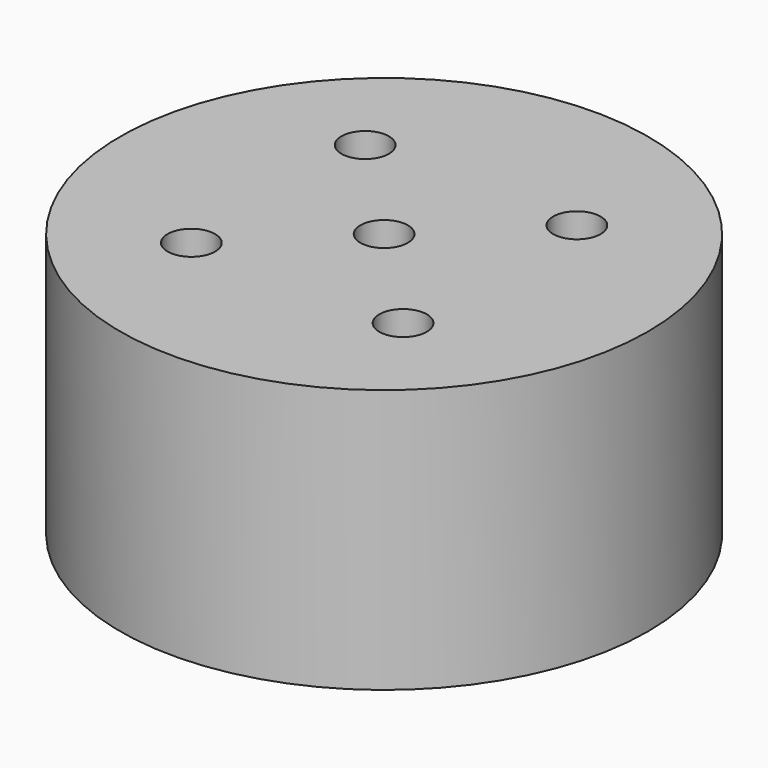
from build123d import *

# Parameters (mm, degrees)
F0_R     = 50
F0_R_2   = 4.5
F1_DEPTH = 50


with BuildPart() as f1:
    # F0 (on Top) → F1 (new body)
    with BuildSketch(Plane.XY):
        Circle(F0_R)
        with Locations((-20.513406, -20)):
            Circle(F0_R_2, mode=Mode.SUBTRACT)
        with Locations((20, -20.513406)):
            Circle(F0_R_2, mode=Mode.SUBTRACT)
        with Locations((-20, 20.513406)):
            Circle(F0_R_2, mode=Mode.SUBTRACT)
        Circle(F0_R_2, mode=Mode.SUBTRACT)
        with Locations((20.513406, 20)):
            Circle(F0_R_2, mode=Mode.SUBTRACT)
    extrude(amount=F1_DEPTH)


solid = f1.part
